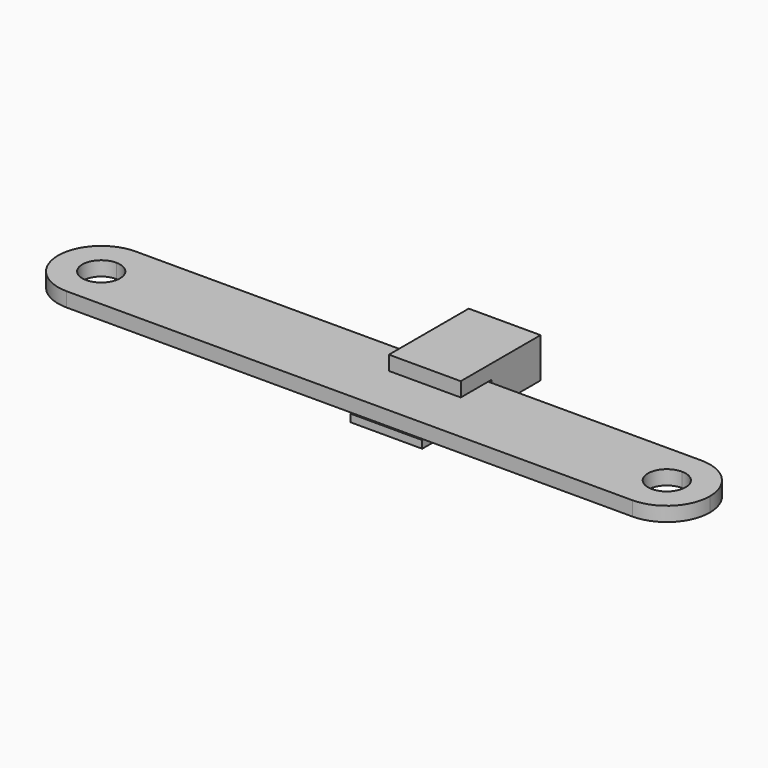
from build123d import *

# Parameters (mm, degrees)
F1_DEPTH = 2
F3_DEPTH = 10


with BuildPart() as f1:
    # F0 (on Top) → F1 (new body)
    with BuildSketch(Plane.XY):
        with BuildLine():
            ThreePointArc((39.37, 6), (33.37, 0), (39.37, -6))
            Line((39.37, -6), (39.37, -2.625))
            ThreePointArc((39.37, -2.625), (36.745, 0), (39.37, 2.625))
            Line((39.37, 2.625), (39.37, 6))
        make_face()
        with BuildLine():
            Line((-39.37, -6), (39.37, -6))
            ThreePointArc((39.37, -6), (33.37, 0), (39.37, 6))
            Line((39.37, 6), (-39.37, 6))
            ThreePointArc((-39.37, 6), (-35.1273593129, 4.2426406871), (-33.37, 0))
            ThreePointArc((-33.37, 0), (-35.1273593129, -4.2426406871), (-39.37, -6))
        make_face()
        with BuildLine():
            Line((39.37, -2.625), (39.37, -6))
            ThreePointArc((39.37, -6), (43.6126406871, -4.2426406871), (45.37, 0))
            ThreePointArc((45.37, 0), (43.6126406871, 4.2426406871), (39.37, 6))
            Line((39.37, 6), (39.37, 2.625))
            ThreePointArc((39.37, 2.625), (41.2261553006, 1.8561553006), (41.995, 0))
            ThreePointArc((41.995, 0), (41.2261553006, -1.8561553006), (39.37, -2.625))
        make_face()
        with BuildLine():
            ThreePointArc((-39.37, 6), (-45.37, 0), (-39.37, -6))
            Line((-39.37, -6), (-39.37, -2.625))
            ThreePointArc((-39.37, -2.625), (-41.995, 0), (-39.37, 2.625))
            Line((-39.37, 2.625), (-39.37, 6))
        make_face()
        with BuildLine():
            Line((-39.37, -2.625), (-39.37, -6))
            ThreePointArc((-39.37, -6), (-35.1273593129, -4.2426406871), (-33.37, 0))
            ThreePointArc((-33.37, 0), (-35.1273593129, 4.2426406871), (-39.37, 6))
            Line((-39.37, 6), (-39.37, 2.625))
            ThreePointArc((-39.37, 2.625), (-37.5138446994, 1.8561553006), (-36.745, 0))
            ThreePointArc((-36.745, 0), (-37.5138446994, -1.8561553006), (-39.37, -2.625))
        make_face()
    extrude(amount=F1_DEPTH)


with BuildPart() as f3:
    # F2 (on Right) → F3 (new body)
    with BuildSketch(Plane.YZ):
        Polygon((-5.8491136879, -0.25), (-5.8491136879, -1.309), (-3.2617992256, -1.309), (3.0752765015, -1.309), (14.7442575544, -1.309), (14.7442575544, 4.2486305851), (0.8583019953, 4.2486305851), (0.8583019953, 2.25), (6.25, 2.25), (6.25, -0.25), align=None)
        with BuildLine():
            Line((3.0752765015, -1.309), (-3.2617992256, -1.309))
            add(Edge.make_bspline(
                [(3.0752765015, -1.309), (2.0590044977, -2.0030352081), (0.001117523, -3.4084129117), (-2.1652672685, -2.0145262289), (-3.2617992256, -1.309)],
                knots=[0, 0, 0, 0, 0.4938424783, 1, 1, 1, 1], degree=3))
        make_face()
    extrude(amount=F3_DEPTH)


solid = Compound([f1.part, f3.part])
